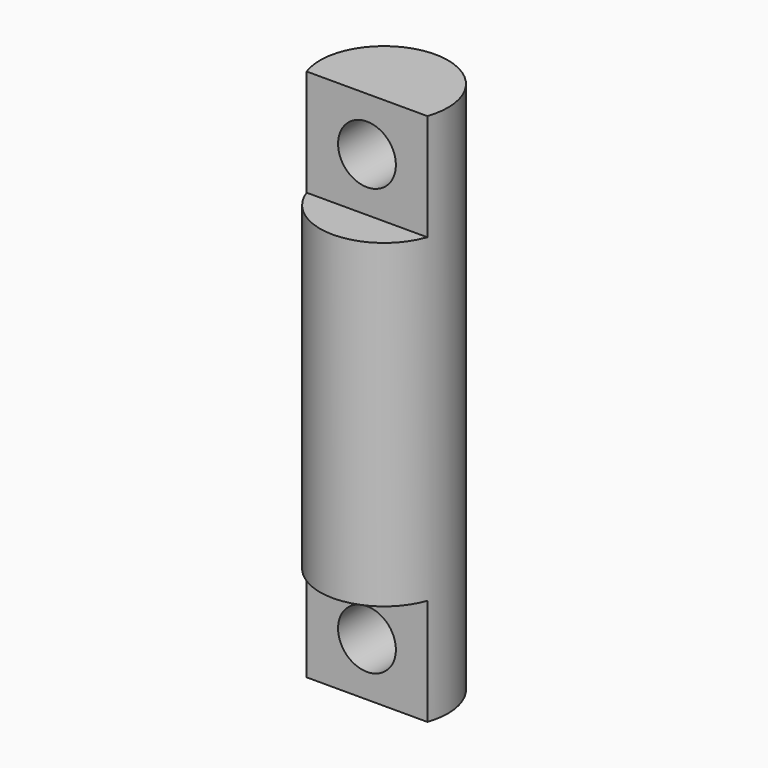
from build123d import *

# Parameters (mm, degrees)
F0_R     = 4.7625
F1_DEPTH = 39.6875
F2_W     = 8.9802561211
F2_H     = 3.175
F3_DEPTH = 7.9375
F4_W     = 8.9802561211
F4_H     = 3.175
F5_DEPTH = 7.9375
F6_R     = 2.15265
F7_DEPTH = 7.3500001002


with BuildPart() as f1:
    # F0 (on Top) → F1 (new body)
    with BuildSketch(Plane.XY):
        Circle(F0_R)
    extrude(amount=F1_DEPTH)

    # F2 (on face) → F3 (cut)
    with BuildSketch(Plane.XY.offset(39.6875)):
        with Locations((0, -3.175)):
            Rectangle(F2_W, F2_H)
    extrude(amount=-F3_DEPTH, mode=Mode.SUBTRACT)

    # F4 (on face) → F5 (cut)
    with BuildSketch(Plane(origin=(0, 0, 0), x_dir=(1, 0, 0), z_dir=(0, 0, -1))):
        with Locations((0, 3.175)):
            Rectangle(F4_W, F4_H)
    extrude(amount=-F5_DEPTH, mode=Mode.SUBTRACT)

    # F6 (on face) → F7 (cut, up to face)
    with BuildSketch(Plane.XZ.offset(1.5875)):
        with Locations((0, 35.71875)):
            Circle(F6_R)
        with Locations((0, 3.96875)):
            Circle(F6_R)
    extrude(amount=-F7_DEPTH, mode=Mode.SUBTRACT)


solid = f1.part
